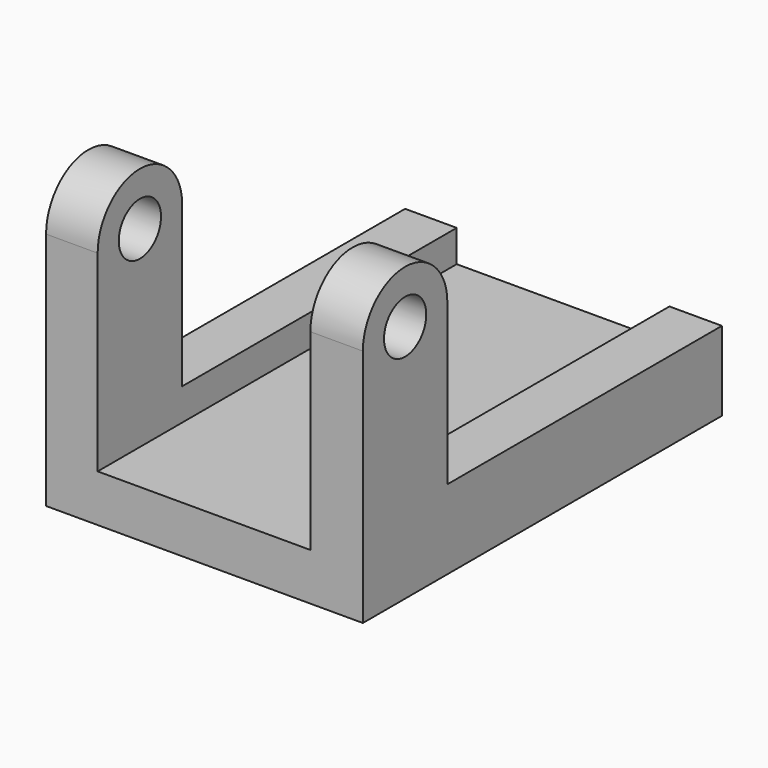
from build123d import *

# Parameters (mm, degrees)
SKETCH_R     = 1
PAD_DEPTH    = 12
SKETCH002_W  = 11.430722
SKETCH002_H  = 8.057475
POCKET_DEPTH = 17


with BuildPart() as part:
    # Sketch → Pad (new body)
    with BuildSketch(Plane.YZ):
        with BuildLine():
            Line((0, 0), (17, 0))
            Line((17, 0), (17, 3))
            Line((17, 3), (4, 3))
            Line((4, 3), (4, 9.067998))
            ThreePointArc((4, 9.067998), (2, 11.067998), (0, 9.067998))
            Line((0, 9.067998), (0, 0))
        make_face()
        with Locations((2, 9.067998)):
            Circle(SKETCH_R, mode=Mode.SUBTRACT)
    extrude(amount=PAD_DEPTH)

    # Sketch002 (on Face2 of Pad) → Pocket (cut)
    with BuildSketch(Plane.ZX.offset(17)):
        with Locations((7.505266, 5.98249)):
            Rectangle(SKETCH002_W, SKETCH002_H)
    extrude(amount=-POCKET_DEPTH, mode=Mode.SUBTRACT)


solid = part.part
